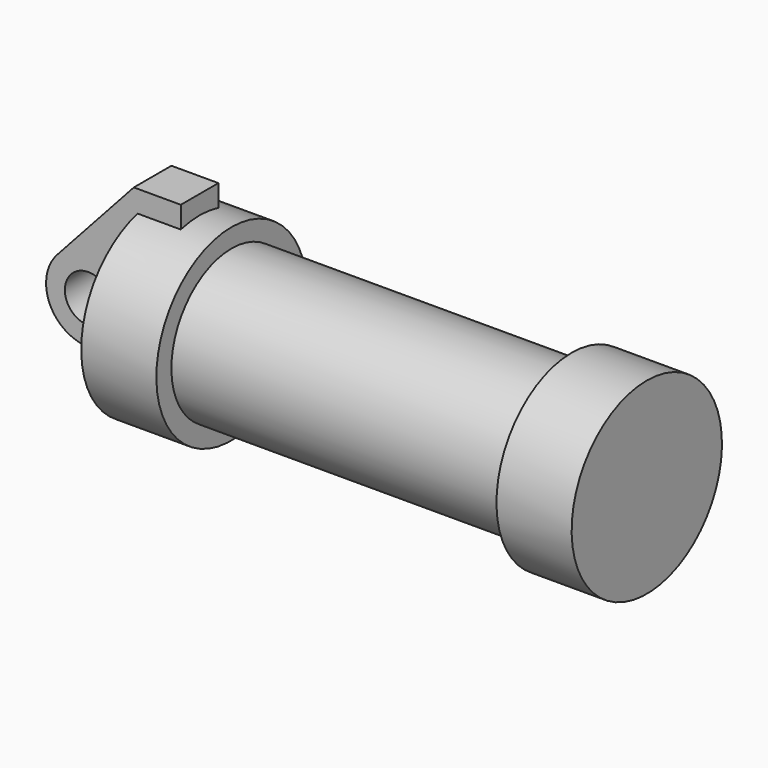
from build123d import *

# Parameters (mm, degrees)
F0_W     = 5.842
F0_H     = 12.7
F0_R     = 3.175
F2_DEPTH = 3.175


with BuildPart() as f1:
    # F0 (on Front) → F1 (revolve)
    with BuildSketch(Plane.XZ):
        Polygon((5.842, 12.7), (5.842, 0), (66.294, 0), (66.294, 12.7), (56.134, 12.7), (56.134, 10.16), (10.16, 10.16), (10.16, 12.7), align=None)
        with Locations((2.921, 6.35)):
            Rectangle(F0_W, F0_H)
    revolve(axis=Axis((33.147, 0, 0), (-1, 0, 0)))


with BuildPart() as f2:
    # F0 (on Front) → F2 (new body, symmetric)
    with BuildSketch(Plane.XZ):
        with BuildLine():
            Line((-0.9398, 0), (0, 0))
            Line((0, 0), (0, 12.7))
            Line((0, 12.7), (5.842, 12.7))
            Line((5.842, 12.7), (5.842, 15.24))
            Line((5.842, 15.24), (-0.508, 15.24))
            Line((-0.508, 15.24), (-10.88063, 3.847543))
            ThreePointArc((-10.88063, 3.847543), (-4.591961, 5.329721), (-0.9398, 0))
        make_face()
        with Locations((2.921, 6.35)):
            Rectangle(F0_W, F0_H)
        with BuildLine():
            Line((5.842, 0), (0, 0))
            Line((0, 0), (-0.9398, 0))
            ThreePointArc((-0.9398, 0), (-3.195791, -4.549339), (-8.182663, -5.506983))
            Line((-8.182663, -5.506983), (5.842, -9.398))
            Line((5.842, -9.398), (5.842, 0))
        make_face()
        with BuildLine():
            ThreePointArc((-8.182663, -5.506983), (-3.195791, -4.549339), (-0.9398, 0))
            ThreePointArc((-0.9398, 0), (-4.591961, 5.329721), (-10.88063, 3.847543))
            ThreePointArc((-10.88063, 3.847543), (-12.145978, -1.583727), (-8.182663, -5.506983))
        make_face()
        with Locations((-6.6548, 0)):
            Circle(F0_R, mode=Mode.SUBTRACT)
    extrude(amount=F2_DEPTH, both=True)


solid = Compound([f1.part, f2.part])
